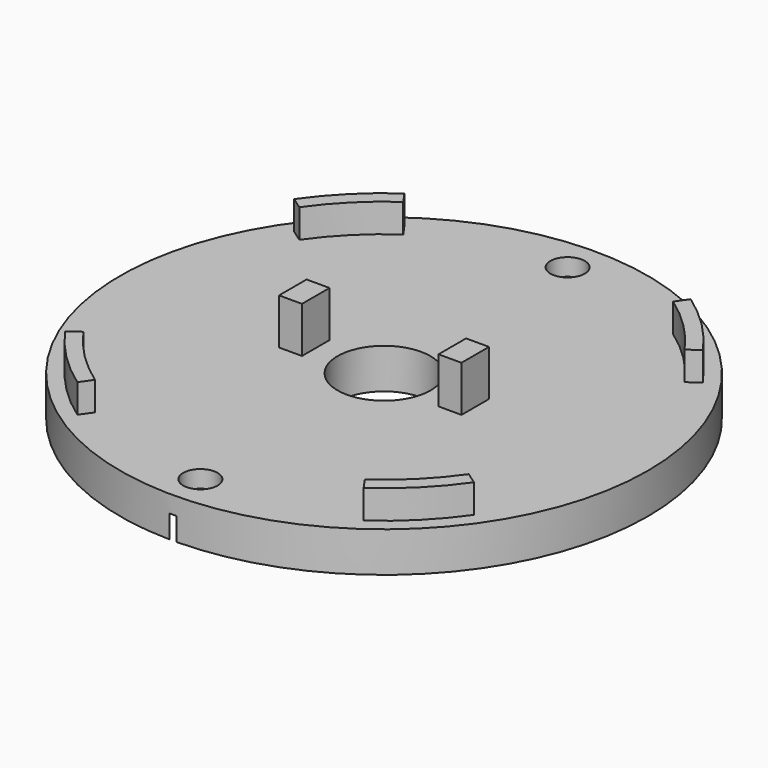
from build123d import *

# Parameters (mm, degrees)
F0_R     = 23
F0_R_2   = 4.05
F1_DEPTH = 3.5
F3_DEPTH = 2.5
F4_W     = 2
F4_H     = 3
F5_DEPTH = 4
F6_R     = 1.5
F7_DEPTH = 25
F9_DEPTH = 2


with BuildPart() as f1:
    # F0 (on Top) → F1 (new body)
    with BuildSketch(Plane.XY):
        Circle(F0_R)
        Circle(F0_R_2, mode=Mode.SUBTRACT)
    extrude(amount=F1_DEPTH)

    # F2 (on face) → F3 (join)
    with BuildSketch(Plane.XY.offset(3.5)):
        with BuildLine():
            Line((16.792617, 11.758317), (17.816557, 12.475287))
            ThreePointArc((17.816557, 12.475287), (15.379572, 15.379572), (12.475287, 17.816557))
            Line((12.475287, 17.816557), (11.758317, 16.792617))
            ThreePointArc((11.758317, 16.792617), (14.495689, 14.495689), (16.792617, 11.758317))
        make_face()
        with BuildLine():
            ThreePointArc((-16.792617, 11.758317), (-14.495689, 14.495689), (-11.758317, 16.792617))
            Line((-11.758317, 16.792617), (-12.475287, 17.816557))
            ThreePointArc((-12.475287, 17.816557), (-15.379572, 15.379572), (-17.816557, 12.475287))
            Line((-17.816557, 12.475287), (-16.792617, 11.758317))
        make_face()
        with BuildLine():
            ThreePointArc((-11.758317, -16.792617), (-14.495689, -14.495689), (-16.792617, -11.758317))
            Line((-16.792617, -11.758317), (-17.816557, -12.475287))
            ThreePointArc((-17.816557, -12.475287), (-15.379572, -15.379572), (-12.475287, -17.816557))
            Line((-12.475287, -17.816557), (-11.758317, -16.792617))
        make_face()
        with BuildLine():
            ThreePointArc((16.792617, -11.758317), (14.495689, -14.495689), (11.758317, -16.792617))
            Line((11.758317, -16.792617), (12.475287, -17.816557))
            ThreePointArc((12.475287, -17.816557), (15.379572, -15.379572), (17.816557, -12.475287))
            Line((17.816557, -12.475287), (16.792617, -11.758317))
        make_face()
    extrude(amount=F3_DEPTH)

    # F4 (on face) → F5 (join)
    with BuildSketch(Plane.XY.offset(3.5)):
        with Locations((6.95, 0)):
            Rectangle(F4_W, F4_H)
        with Locations((-6.95, 0)):
            Rectangle(F4_W, F4_H)
    extrude(amount=F5_DEPTH)

    # F6 (on face) → F7 (cut)
    with BuildSketch(Plane(origin=(0, 0, 0), x_dir=(1, 0, 0), z_dir=(0, 0, -1))):
        with Locations((0, 20)):
            Circle(F6_R)
        with Locations((0, -20)):
            Circle(F6_R)
    extrude(amount=-F7_DEPTH, mode=Mode.SUBTRACT)

    # F8 (on face) → F9 (cut)
    with BuildSketch(Plane(origin=(0, 0, 0), x_dir=(1, 0, 0), z_dir=(0, 0, -1))):
        Polygon((-2.75, 21.587713), (-2.75, 18.412287), (0, 16.824574), (2.75, 18.412287), (2.75, 21.587713), (0, 23.175426), align=None)
        Polygon((2.75, -21.587713), (2.75, -18.412287), (0, -16.824574), (-2.75, -18.412287), (-2.75, -21.587713), (0, -23.175426), align=None)
    extrude(amount=-F9_DEPTH, mode=Mode.SUBTRACT)


solid = f1.part
